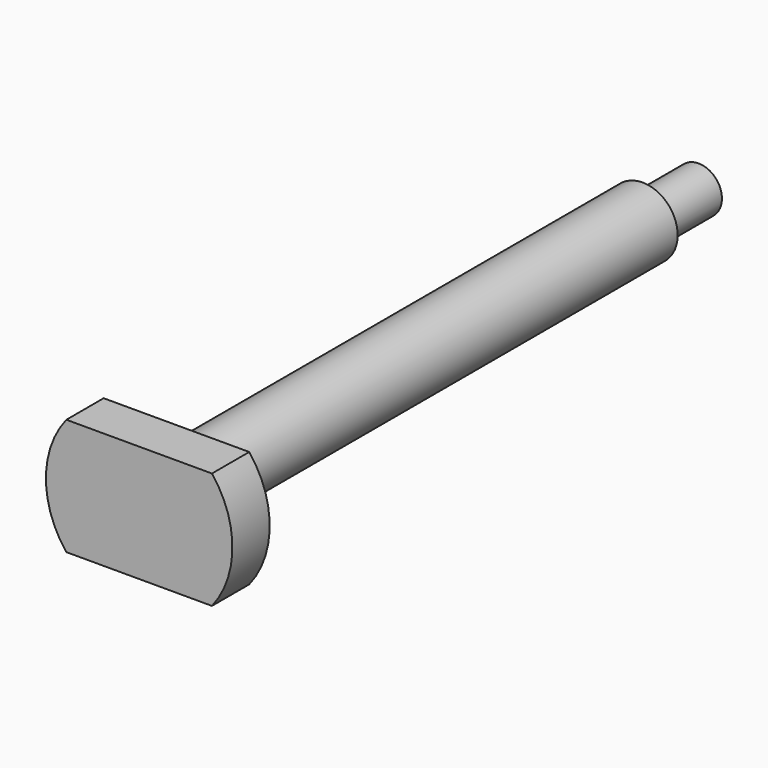
from build123d import *

# Parameters (mm, degrees)
F3_W     = 19.09311
F3_H     = 4.934694
F3_H_2   = 4.746388
F4_DEPTH = 4


with BuildPart() as f2:
    # F0 (on Right) → F2 (revolve)
    with BuildSketch(Plane.YZ):
        Polygon((-89.465849, 8), (-89.465849, 0), (-29.465849, 0), (-29.465849, 2), (-35.465849, 2), (-35.465849, 3), (-85.465849, 3), (-85.465849, 8), align=None)
    revolve(axis=Axis((0, -60.270485, 0), (0, 1, 0)))

    # F3 (on face) → F4 (cut, through all)
    with BuildSketch(Plane.XZ.offset(89.465849)):
        with Locations((0.222466, 7.467347)):
            Rectangle(F3_W, F3_H)
        with Locations((0.222466, -7.373194)):
            Rectangle(F3_W, F3_H_2)
    extrude(amount=-F4_DEPTH, mode=Mode.SUBTRACT)


solid = f2.part
